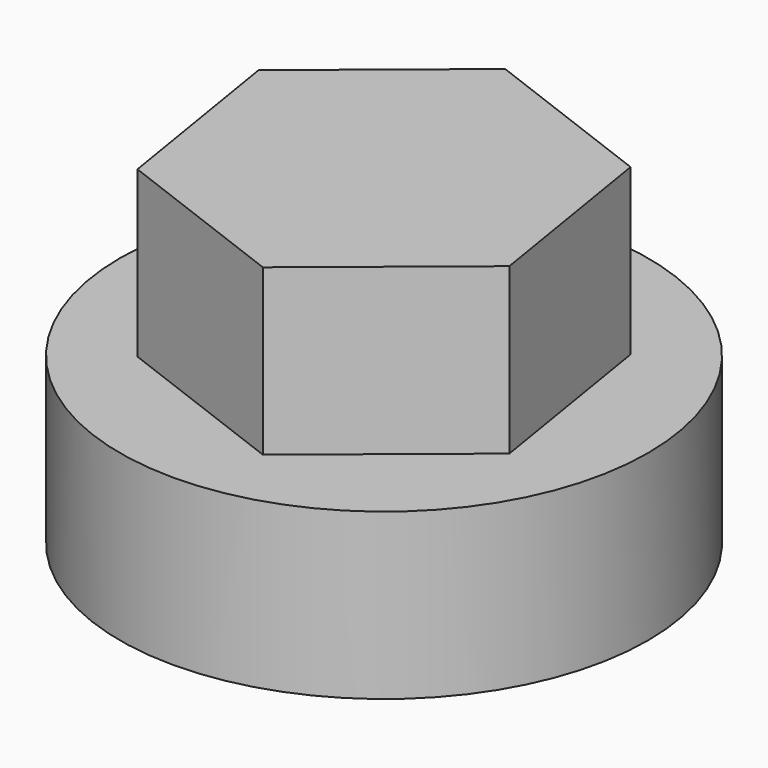
from build123d import *

# Parameters (mm, degrees)
F0_R     = 40
F1_DEPTH = 25
F3_DEPTH = 25


with BuildPart() as f1:
    # F0 (on Top) → F1 (new body)
    with BuildSketch(Plane.XY):
        Circle(F0_R)
    extrude(amount=F1_DEPTH)

    # F2 (on face) → F3 (join)
    with BuildSketch(Plane.XY.offset(25)):
        Polygon((-4.674604, 28.796626), (-27.275911, 10.349988), (-22.601308, -18.446638), (4.674604, -28.796626), (27.275911, -10.349988), (22.601308, 18.446638), align=None)
    extrude(amount=F3_DEPTH)


solid = f1.part
